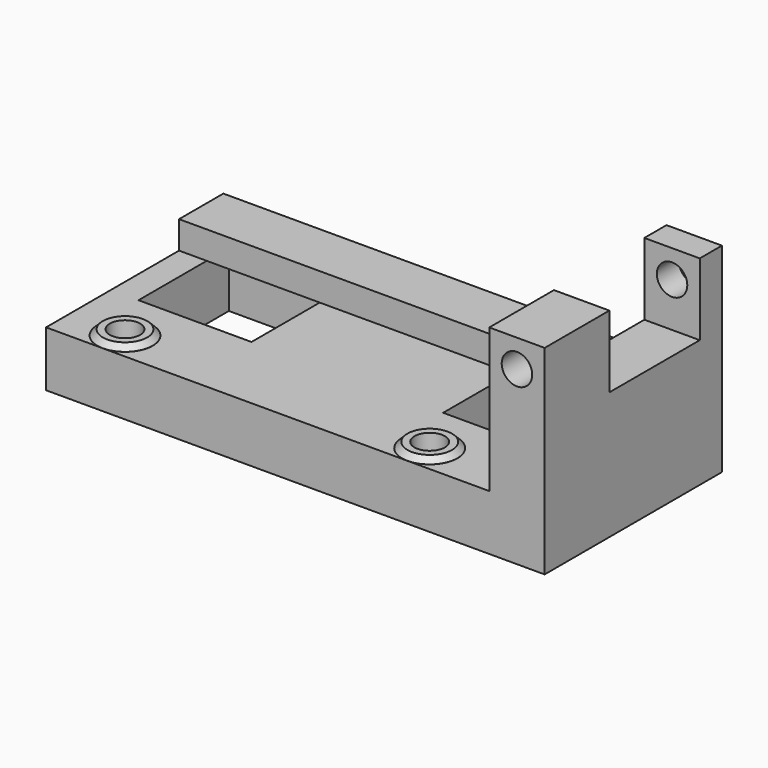
from build123d import *

# Parameters (mm, degrees)
SKETCH_W      = 90
SKETCH_H      = 40
SKETCH_W_2    = 20.4
SKETCH_H_2    = 20.4
PAD_DEPTH     = 10
PAD001_DEPTH  = 10
SKETCH002_R   = 2.75
HOLE_DEPTH    = 40.001
SKETCH003_R   = 2.75
HOLE001_DEPTH = 36.001
SKETCH004_W   = 80
SKETCH004_H   = 5
PAD002_DEPTH  = 10
SKETCH005_R   = 5
SKETCH005_R_2 = 2.75
PAD003_DEPTH  = 1
CHAMFER_SIZE  = 0.99


with BuildPart() as part:
    # Sketch → Pad (new body)
    with BuildSketch(Plane.XY):
        with Locations((45, -20)):
            Rectangle(SKETCH_W, SKETCH_H)
        with Locations((15.2, -15.2)):
            Rectangle(SKETCH_W_2, SKETCH_H_2, mode=Mode.SUBTRACT)
        with Locations((70.2, -15.2)):
            Rectangle(SKETCH_W_2, SKETCH_H_2, mode=Mode.SUBTRACT)
    extrude(amount=PAD_DEPTH)

    # Sketch001 (on Face2 of Pad) → Pad001 (join)
    with BuildSketch(Plane.YZ.offset(90)):
        Polygon((0, 36), (-5, 36), (-5, 23), (-25.4, 23), (-25.4, 36), (-40, 36), (-40, 0), (0, 0), align=None)
    extrude(amount=-PAD001_DEPTH)

    # Sketch002 → Hole (cut, through all)
    with BuildSketch(Plane.XZ):
        with Locations((85, 31)):
            Circle(SKETCH002_R)
    extrude(amount=HOLE_DEPTH, mode=Mode.SUBTRACT)

    # Sketch003 → Hole001 (cut, through all)
    with BuildSketch(Plane.XY):
        with Locations((10.25, -35)):
            Circle(SKETCH003_R)
        with Locations((65.25, -35)):
            Circle(SKETCH003_R)
    extrude(amount=HOLE001_DEPTH, mode=Mode.SUBTRACT)

    # Sketch004 (on Face1 of Hole001) → Pad002 (join)
    with BuildSketch(Plane(origin=(0, 0, 0), x_dir=(-1, 0, 0), z_dir=(0, 1, 0))):
        with Locations((-40, 12.5)):
            Rectangle(SKETCH004_W, SKETCH004_H)
    extrude(amount=-PAD002_DEPTH)

    # Sketch005 → Pad003 (join)
    with BuildSketch(Plane.XY.offset(10)):
        with Locations((10.25, -35)):
            Circle(SKETCH005_R)
        with Locations((10.25, -35)):
            Circle(SKETCH005_R_2, mode=Mode.SUBTRACT)
        with Locations((65.25, -35)):
            Circle(SKETCH005_R)
        with Locations((65.25, -35)):
            Circle(SKETCH005_R_2, mode=Mode.SUBTRACT)
    extrude(amount=PAD003_DEPTH)

    # Chamfer
    chamfer_edges = [part.edges().sort_by_distance(p)[0] for p in [
        (5.25, -35, 11),
        (60.25, -35, 11),
    ]]
    chamfer(chamfer_edges, length=CHAMFER_SIZE)


solid = part.part
